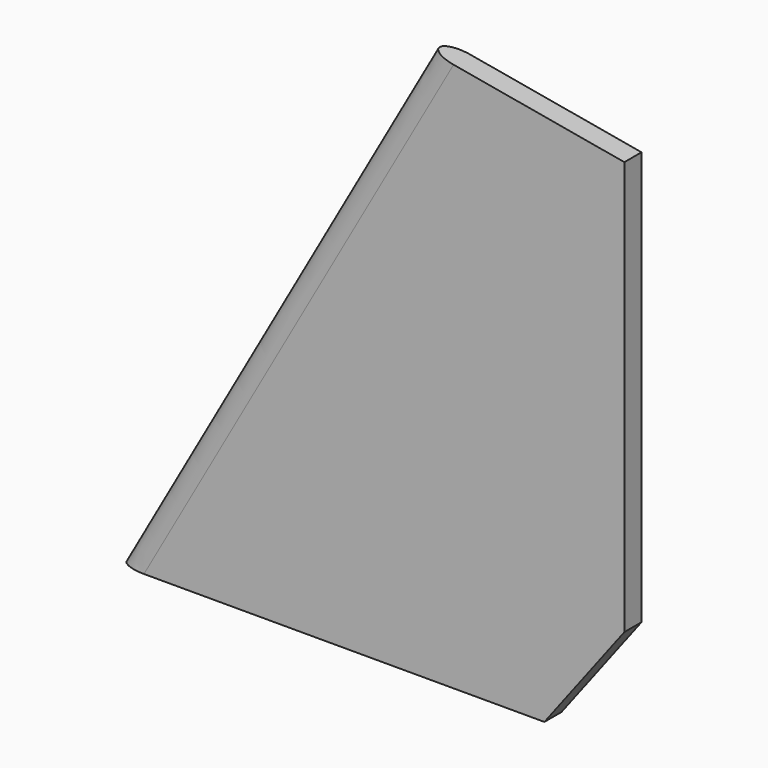
from build123d import *

# Parameters (mm, degrees)
F1_DEPTH = 1.190625
F4_DEPTH = 81.1157430976


with BuildPart() as f1:
    # F0 (on Front) → F1 (new body, symmetric)
    with BuildSketch(Plane.XZ):
        Polygon((34.6639213115, 61.468), (0, 0), (47.244, 0), (56.134, 11.684), (56.134, 57.6660068989), align=None)
    extrude(amount=F1_DEPTH, both=True)

    # F3 (on line) → F4 (cut, through all)
    with BuildSketch(Plane(origin=(0, 0, 0), x_dir=(0.8710411332, 0, -0.4912100817), z_dir=(0.4912100817, 0, 0.8710411332))):
        with BuildLine():
            add(Edge.make_bspline(
                [(2.38125, 1.190625), (0, 1.190625), (0, 0)],
                knots=[4.7123889804, 4.7123889804, 4.7123889804, 6.2831853072, 6.2831853072, 6.2831853072], degree=2, weights=[1, 0.7071067812, 1]))
            Line((2.38125, 1.190625), (20.5688990118, 1.190625))
            Line((20.5688990118, 1.190625), (20.5688990118, 12.7))
            Line((20.5688990118, 12.7), (-12.7, 12.7))
            Line((-12.7, 12.7), (-12.7, -12.7))
            Line((-12.7, -12.7), (20.5688990118, -12.7))
            Line((20.5688990118, -12.7), (20.5688990118, -1.190625))
            Line((20.5688990118, -1.190625), (2.38125, -1.190625))
            add(Edge.make_bspline(
                [(0, 0), (0, -1.190625), (2.38125, -1.190625)],
                knots=[0, 0, 0, 1.5707963268, 1.5707963268, 1.5707963268], degree=2, weights=[1, 0.7071067812, 1]))
        make_face()
    extrude(amount=F4_DEPTH, mode=Mode.SUBTRACT)


solid = f1.part
